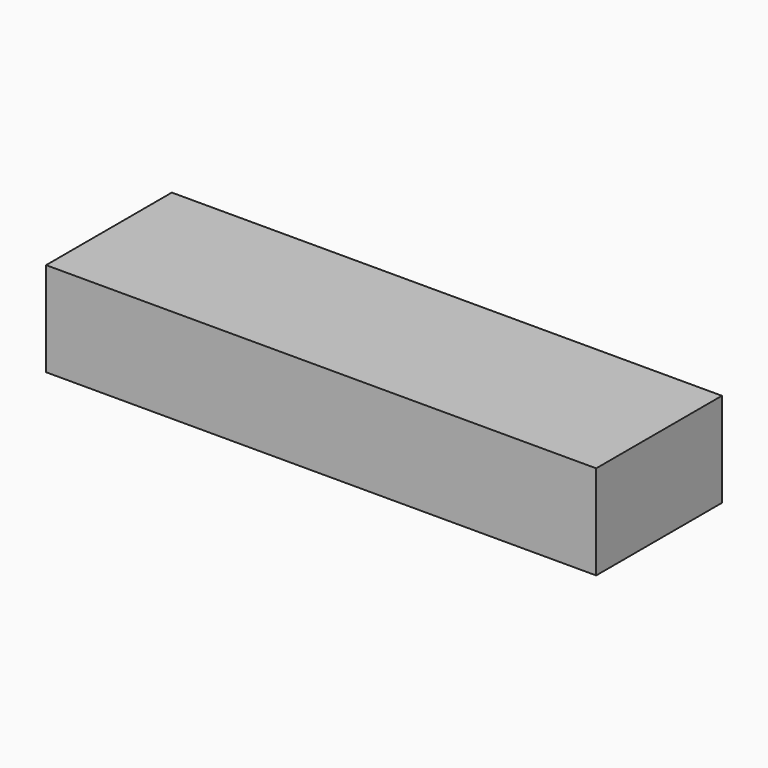
from build123d import *

# Parameters (mm, degrees)
SKETCH_W  = 7
SKETCH_H  = 2
PAD_DEPTH = 1.2


with BuildPart() as part:
    # Sketch → Pad (new body)
    with BuildSketch(Plane.XY):
        Rectangle(SKETCH_W, SKETCH_H)
    extrude(amount=PAD_DEPTH)


solid = part.part
